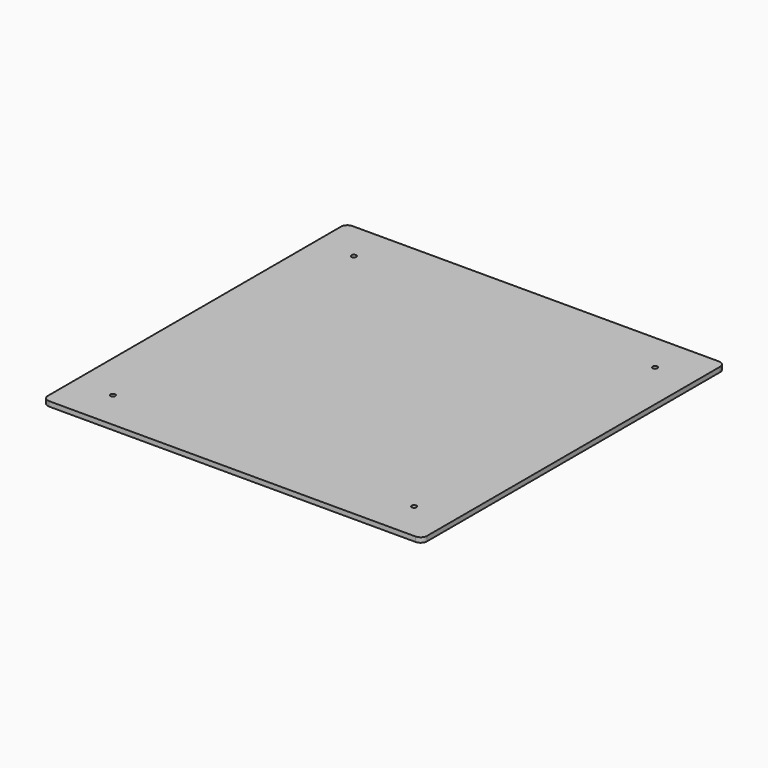
from build123d import *

# Parameters (mm, degrees)
F1_W     = 236
F1_H     = 236
F1_R     = 1.5
F2_DEPTH = 3
F3_R     = 4


with BuildPart() as f2:
    # F1 (on Top) → F2 (new body)
    with BuildSketch(Plane.XY):
        with Locations((118, 118)):
            Rectangle(F1_W, F1_H)
        with Locations((24.25, 24.25)):
            Circle(F1_R, mode=Mode.SUBTRACT)
        with Locations((211.75, 24.25)):
            Circle(F1_R, mode=Mode.SUBTRACT)
        with Locations((24.25, 211.75)):
            Circle(F1_R, mode=Mode.SUBTRACT)
        with Locations((211.75, 211.75)):
            Circle(F1_R, mode=Mode.SUBTRACT)
    extrude(amount=F2_DEPTH)

    # F3
    f3_edges = [f2.edges().sort_by_distance(p)[0] for p in [
        (0, 0, 1.5),
        (0, 236, 1.5),
        (236, 236, 1.5),
        (236, 0, 1.5),
    ]]
    fillet(f3_edges, radius=F3_R)


solid = f2.part
